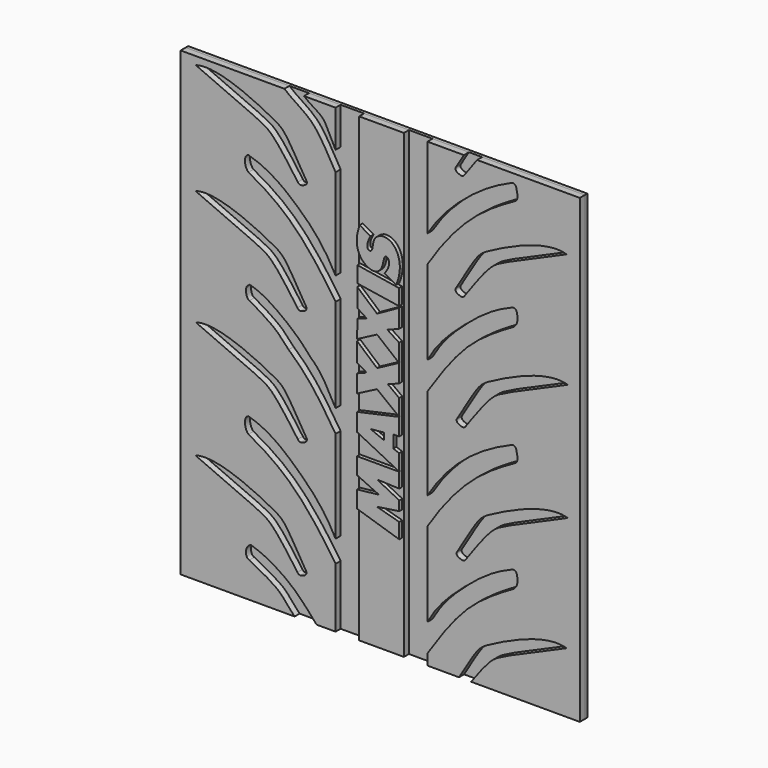
from build123d import *

# Parameters (mm, degrees)
F1_DEPTH = 2
F0_W     = 14.2300206423
F0_H     = 74.1296662018
F0_H_2   = 72.6094702259
F3_DEPTH = 1.2
F4_W     = 127.0025297999
F4_H     = 146.7391364276
F5_DEPTH = 1


with BuildPart() as f1:
    # F0 (on Front) → F1 (new body)
    with BuildSketch(Plane.XZ):
        with BuildLine():
            add(Edge.make_bspline(
                [(-41.8655090034, 15.2501037012), (-43.6666198075, 14.7190468054), (-42.9905094206, 11.0769281164), (-41.8655090034, 10.1964939386)],
                knots=[0, 0, 0, 0, 5.0536097627, 5.0536097627, 5.0536097627, 5.0536097627], degree=3))
            add(Edge.make_bspline(
                [(-41.8655090034, 15.2501037012), (-35.2597586246, 13.4208189809), (-25.3045467676, 4.790376324), (-17.9292845371, -2.7922394254), (-14.1559578478, -10.0558923369)],
                knots=[0, 0, 0, 0, 0.4975011066, 1, 1, 1, 1], degree=3))
            Line((-14.1559578478, -10.0558923369), (-14.1559578478, 19.3150328993))
            add(Edge.make_bspline(
                [(-14.1559578478, 19.3150328993), (-16.3072487843, 22.7551576557), (-21.2492316243, 30.304799236), (-26.1664546409, 35.4826125017), (-29.0970429778, 38.0549306571)],
                knots=[0, 0, 0, 0, 0.517561085, 1, 1, 1, 1], degree=3))
            Line((-29.0970429778, 38.0549306571), (-63.4493008256, 38.0549306571))
            Line((-63.4493008256, 38.0549306571), (-63.4493008256, -36.0747355447))
            Line((-63.4493008256, -36.0747355447), (-27.1971207112, -36.0747355447))
            add(Edge.make_bspline(
                [(-41.6124649346, -24.9782577157), (-39.390100932, -26.089439717), (-31.2262180507, -30.1538274419), (-29.6071148089, -33.6922566261), (-27.1971207112, -36.0747355447)],
                knots=[0, 0, 0, 0, 0.5368903269, 1, 1, 1, 1], degree=3))
            add(Edge.make_bspline(
                [(-41.2117466331, -20.5131042749), (-42.6106470898, -21.445705277), (-42.8188519542, -23.3918120427), (-42.3362219325, -24.6766920292), (-41.6124649346, -24.9782577157)],
                knots=[0, 0, 0, 0, 0.5719865372, 1, 1, 1, 1], degree=3))
            add(Edge.make_bspline(
                [(-41.2117466331, -20.5131042749), (-37.1007429452, -21.6093724169), (-27.706447267, -27.1157253071), (-23.0069098667, -32.886912527), (-20.2105976641, -36.0747355447)],
                knots=[0, 0, 0, 0, 0.522854603, 1, 1, 1, 1], degree=3))
            Line((-20.2105976641, -36.0747355447), (-14.1559578478, -36.0747355447))
            Line((-14.1559578478, -36.0747355447), (-14.1559578478, -17.0781233758))
            add(Edge.make_bspline(
                [(-41.8655090034, 10.1964939386), (-37.1166798797, 7.6510800825), (-27.6118819655, 1.4305031824), (-19.0872730942, -9.6273883339), (-14.1559578478, -17.0781233758)],
                knots=[0, 0, 0, 0, 0.4542915234, 1, 1, 1, 1], degree=3))
        make_face()
        with BuildLine():
            add(Edge.make_bspline(
                [(-58.7308444083, -1.202338608), (-48.4079346061, -5.755131715), (-36.154849372, -10.8249882133), (-33.7198717965, -12.9801158233), (-26.2810606509, -23.3725715661)],
                knots=[0, 0, 0, 0, 0.5300992494, 1, 1, 1, 1], degree=3))
            add(Edge.make_bspline(
                [(-58.7308444083, -1.202338608), (-52.1364584565, 0.840219087), (-29.6225099343, -10.1712930812), (-30.5971542315, -10.4619739025), (-23.4154388309, -22.3012209171)],
                knots=[0, 0, 0, 0, 0.5388303409, 1, 1, 1, 1], degree=3))
            add(Edge.make_bspline(
                [(-26.2810606509, -23.3725715661), (-25.8638598025, -24.0666639293), (-24.6736605899, -23.955709513), (-23.1492277235, -23.0795234675), (-23.4154388309, -22.3012209171)],
                knots=[0, 0, 0, 0, 0.485299786, 1, 1, 1, 1], degree=3))
        make_face(mode=Mode.SUBTRACT)
        with BuildLine():
            add(Edge.make_bspline(
                [(-58.6333796382, 36.1035572346), (-48.310469836, 31.5507641276), (-36.0573846019, 26.4809076293), (-33.6224070264, 24.3257800193), (-26.1835958809, 13.9333242764)],
                knots=[0, 0, 0, 0, 0.5300992494, 1, 1, 1, 1], degree=3))
            add(Edge.make_bspline(
                [(-58.6333796382, 36.1035572346), (-52.0389936864, 38.1461149295), (-29.5250451642, 27.1346027614), (-30.4996894614, 26.8439219401), (-23.3179740608, 15.0046749254)],
                knots=[0, 0, 0, 0, 0.5388303409, 1, 1, 1, 1], degree=3))
            add(Edge.make_bspline(
                [(-26.1835958809, 13.9333242764), (-25.7663950324, 13.2392319133), (-24.5761958198, 13.3501863296), (-23.0517629534, 14.2263723751), (-23.3179740608, 15.0046749254)],
                knots=[0, 0, 0, 0, 0.485299786, 1, 1, 1, 1], degree=3))
        make_face(mode=Mode.SUBTRACT)
        with BuildLine():
            add(Edge.make_bspline(
                [(-14.1559578478, 26.5061898678), (-17.3408713188, 32.5709627437), (-18.8523223631, 34.6572941584), (-20.6424468924, 36.8554720071), (-21.9953712076, 38.0549306571)],
                knots=[0, 0, 0, 0, 0.6155966596, 1, 1, 1, 1], degree=3))
            Line((-14.1559578478, 26.5061898678), (-14.1559578478, 38.0549306571))
            Line((-14.1559578478, 38.0549306571), (-21.9953712076, 38.0549306571))
        make_face()
        with BuildLine():
            Line((-63.4493008256, 38.0549306571), (-29.0970429778, 38.0549306571))
            add(Edge.make_bspline(
                [(-41.5852069855, 47.7003492415), (-39.2344400432, 46.5249657704), (-32.0130789649, 41.8905157378), (-31.3456095912, 40.2778251274), (-29.0970429778, 38.0549306571)],
                knots=[0, 0, 0, 0, 0.5679105811, 1, 1, 1, 1], degree=3))
            add(Edge.make_bspline(
                [(-41.4468608797, 52.2658005357), (-42.6919832826, 51.4357183129), (-42.6970700488, 50.1487237463), (-42.4152873456, 48.0462163687), (-41.5852069855, 47.7003492415)],
                knots=[0, 0, 0, 0, 0.5091093138, 1, 1, 1, 1], degree=3))
            add(Edge.make_bspline(
                [(-41.4468608797, 52.2658005357), (-37.2354883009, 51.142767344), (-28.8094860202, 45.210630296), (-24.7168721252, 41.1574680848), (-21.9953712076, 38.0549306571)],
                knots=[0, 0, 0, 0, 0.5356199374, 1, 1, 1, 1], degree=3))
            Line((-21.9953712076, 38.0549306571), (-14.1559578478, 38.0549306571))
            Line((-14.1559578478, 38.0549306571), (-14.1559578478, 56.291444838))
            add(Edge.make_bspline(
                [(-41.8665632606, 83.5660621524), (-37.1176644312, 81.0206109335), (-27.6115594102, 74.8003581649), (-19.0872128358, 63.7420888353), (-14.1559578478, 56.291444838)],
                knots=[0, 0, 0, 0, 0.4542981917, 1, 1, 1, 1], degree=3))
            add(Edge.make_bspline(
                [(-41.8665632606, 88.3973250166), (-43.6676740646, 87.8662681207), (-42.9915636778, 84.4464963302), (-41.8665632606, 83.5660621524)],
                knots=[0, 0, 0, 0, 4.8312628642, 4.8312628642, 4.8312628642, 4.8312628642], degree=3))
            add(Edge.make_bspline(
                [(-41.8665632606, 88.3973250166), (-35.2857208361, 86.5749378836), (-25.2193234614, 78.663365945), (-17.9433709123, 70.9146051237), (-14.1559578478, 63.6238359436)],
                knots=[0, 0, 0, 0, 0.4956252054, 1, 1, 1, 1], degree=3))
            Line((-14.1559578478, 63.6238359436), (-14.1559578478, 92.5821388661))
            add(Edge.make_bspline(
                [(-14.1559578478, 92.5821388661), (-16.3314961836, 96.0610375871), (-20.5330372187, 105.1737272253), (-27.5256646299, 108.1231862792), (-30.4208173401, 110.664400883)],
                knots=[0, 0, 0, 0, 0.523394564, 1, 1, 1, 1], degree=3))
            Line((-30.4208173401, 110.664400883), (-63.4493008256, 110.664400883))
            Line((-63.4493008256, 110.664400883), (-63.4493008256, 38.0549306571))
        make_face()
        with BuildLine():
            add(Edge.make_bspline(
                [(-58.7308444083, 72.8552903747), (-48.4079346061, 68.3024972677), (-36.154849372, 63.2326407694), (-33.7198717965, 61.0775131594), (-26.2810606509, 50.6850574166)],
                knots=[0, 0, 0, 0, 0.5300992494, 1, 1, 1, 1], degree=3))
            add(Edge.make_bspline(
                [(-58.7308444083, 72.8552903747), (-52.1364584565, 74.8978480697), (-29.6225099343, 63.8863359015), (-30.5971542315, 63.5956550802), (-23.4154388309, 51.7564080656)],
                knots=[0, 0, 0, 0, 0.5388303409, 1, 1, 1, 1], degree=3))
            add(Edge.make_bspline(
                [(-26.2810606509, 50.6850574166), (-25.8638598025, 49.9909650534), (-24.6736605899, 50.1019194697), (-23.1492277235, 50.9781055152), (-23.4154388309, 51.7564080656)],
                knots=[0, 0, 0, 0, 0.485299786, 1, 1, 1, 1], degree=3))
        make_face(mode=Mode.SUBTRACT)
        with BuildLine():
            add(Edge.make_bspline(
                [(-58.633379639, 108.1231862792), (-48.3104698371, 103.5703931723), (-36.0573846009, 98.5005366854), (-33.6224070266, 96.3454090725), (-26.1835958809, 85.9529533293)],
                knots=[0, 0, 0, 0, 0.5300992493, 1, 1, 1, 1], degree=3))
            add(Edge.make_bspline(
                [(-58.633379639, 108.1231862792), (-52.0389936873, 110.1657439741), (-29.5250451635, 99.1542318176), (-30.4996894615, 98.8635509932), (-23.3179740608, 87.0243039783)],
                knots=[0, 0, 0, 0, 0.5388303409, 1, 1, 1, 1], degree=3))
            add(Edge.make_bspline(
                [(-26.1835958809, 85.9529533293), (-25.7663950324, 85.2588609662), (-24.5761958198, 85.3698153825), (-23.0517629534, 86.246001428), (-23.3179740608, 87.0243039783)],
                knots=[0, 0, 0, 0, 0.485299786, 1, 1, 1, 1], degree=3))
        make_face(mode=Mode.SUBTRACT)
    extrude(amount=F1_DEPTH)


with BuildPart() as f1b:
    # F0 (on Front) → F1, piece 2 (new body)
    with BuildSketch(Plane.XZ):
        with Locations((0.4590524733, 0.9900975562)):
            Rectangle(F0_W, F0_H)
        with Locations((0.4590524733, 74.35966577)):
            Rectangle(F0_W, F0_H_2)
    extrude(amount=F1_DEPTH)

    # F2 (on face) → F3 (join)
    with BuildSketch(Plane.XZ.offset(2)):
        with BuildLine():
            add(Edge.make_bspline(
                [(-1.593664523, 69.6557025601), (2.4227695082, 69.4677736769), (1.0510222379, 77.9947397843), (5.1662875339, 73.5185071826), (2.3532597056, 70.17293749)],
                knots=[0, 0, 0, 0, 0.543159963, 1, 1, 1, 1], degree=3))
            Line((2.3532597056, 70.17293749), (6.0832840391, 68.1069865823))
            add(Edge.make_bspline(
                [(1.5388152096, 80.317735672), (4.364233464, 80.5911645293), (8.0780139508, 76.1376196924), (7.1714227088, 70.7295462489), (6.0832840391, 68.1069865823)],
                knots=[0, 0, 0, 0, 0.4788686478, 1, 1, 1, 1], degree=3))
            add(Edge.make_bspline(
                [(-2.0673000254, 79.0989398956), (-4.2831547234, 75.2378835789), (-0.072352471, 73.5045210834), (-2.0430385271, 79.4450014997), (1.5388152096, 80.317735672)],
                knots=[0, 0, 0, 0, 0.4446872538, 1, 1, 1, 1], degree=3))
            Line((-2.0673000254, 79.0989398956), (-5.51886263, 81.0726742436))
            add(Edge.make_bspline(
                [(-5.51886263, 81.0726742436), (-6.636819527, 78.0052232802), (-6.758014968, 73.2975326458), (-3.8440336236, 70.2832777914), (-1.593664523, 69.6557025601)],
                knots=[0, 0, 0, 0, 0.5357194558, 1, 1, 1, 1], degree=3))
        make_face()
        Polygon((-6.2724218463, 64.5119398832), (7.0095583797, 62.4566491045), (7.0095583797, 67.5095946126), (-6.2724218463, 69.6419626474), align=None)
        Polygon((-6.2724218463, 54.6392649412), (-6.3170460053, 48.9155128598), (0, 52.2330999374), (6.9726742804, 46.562731266), (7.0095583797, 52.2330999374), (3.2986551523, 54.6392649412), (6.9726264777, 56.083031539), (6.9726264777, 61.9576265996), (0, 58.0662228167), (-6.2724218463, 63.5132412486), (-6.2724218463, 57.5922802091), (-3.2824883531, 55.6535949634), align=None)
        Polygon((-6.3406578265, 22.8337492478), (7.0549640805, 16.1261726171), (7.0549640805, 21.2882533669), (5.1841945387, 21.9842866063), (5.1841945387, 25.9542521089), (7.0549640805, 25.9542521089), (7.0549640805, 31.4541353042), (-6.3406578265, 28.5082418156), align=None)
        Polygon((2.2399148438, 23.3197491616), (-2.0557362586, 25.1067411155), (2.2399148438, 25.5019403994), align=None, mode=Mode.SUBTRACT)
        Polygon((-6.3406578265, 1.3783933279), (7.0549640805, -2.8452902067), (7.0549640805, 2.0387167617), (0, 3.9841391186), (7.0549640805, 5.0430428398), (7.0549640805, 8.0855398498), (0, 11.638600197), (7.0549640805, 11.3677175644), (7.0549640805, 16.0873714519), (-6.3406578265, 16.0873714519), (-6.3406578265, 10.7783717719), (0.5800173967, 7.5654453282), (-6.3406578265, 6.7851674427), align=None)
        Polygon((0, 36.937713623), (7.0549640805, 31.4594767988), (7.0549640805, 36.7354634017), (3.4362971059, 39.4332168259), (6.9726264777, 40.7821258165), (6.9726264777, 46.5528550485), (0, 42.8201146424), (-6.3531193882, 48.3372114283), (-6.3531193882, 42.2684117836), (-3.3383076079, 40.4804363531), (-6.3406578265, 39.2909735125), (-6.3406578265, 33.6437612456), align=None)
    extrude(amount=F3_DEPTH)


with BuildPart() as f1c:
    # F0 (on Front) → F1, piece 3 (new body)
    with BuildSketch(Plane.XZ):
        with BuildLine():
            Line((63.5532289743, -36.0747355447), (63.5532289743, 38.0549306571))
            Line((63.5532289743, 38.0549306571), (29.5210032237, 38.0549306571))
            add(Edge.make_bspline(
                [(29.5210032237, 38.0549306571), (28.837112906, 37.1165058232), (28.0868631075, 36.0756258983), (27.2585712373, 34.9184535444)],
                knots=[0.9476777991, 0.9476777991, 0.9476777991, 0.9476777991, 1, 1, 1, 1], degree=3))
            add(Edge.make_bspline(
                [(27.2585712373, 34.9184535444), (26.8413703889, 34.2243611813), (25.6511711762, 34.3353155976), (24.1267383099, 35.2115016431), (24.3929494172, 35.9898041934)],
                knots=[0, 0, 0, 0, 0.485299786, 1, 1, 1, 1], degree=3))
            add(Edge.make_bspline(
                [(25.6405517733, 38.0549306571), (25.2518683443, 37.409099866), (24.8369957671, 36.721826298), (24.3929494172, 35.9898041934)],
                knots=[0.971485823, 0.971485823, 0.971485823, 0.971485823, 1, 1, 1, 1], degree=3))
            Line((25.6405517733, 38.0549306571), (15.0740627944, 38.0549306571))
            Line((15.0740627944, 38.0549306571), (15.0740627944, 11.5862038597))
            add(Edge.make_bspline(
                [(15.0740627944, 11.5862038597), (18.4322839584, 17.1100059201), (26.2886108843, 26.2889987559), (36.0107071108, 31.9461943647), (41.9982336462, 34.5122776926)],
                knots=[0, 0, 0, 0, 0.5034913396, 1, 1, 1, 1], degree=3))
            add(Edge.make_bspline(
                [(41.9982336462, 34.5122776926), (43.1498996913, 34.7179286182), (43.6235229728, 32.4182398305), (43.8902527094, 30.5225886405), (43.1498996913, 29.8233646899)],
                knots=[0, 0, 0, 0, 0.4857469503, 1, 1, 1, 1], degree=3))
            add(Edge.make_bspline(
                [(15.0740627944, 2.948734365), (19.1939191352, 9.5911349165), (27.8705148836, 20.2604931743), (36.3444124976, 26.0106527232), (43.1498996913, 29.8233646899)],
                knots=[0, 0, 0, 0, 0.516106494, 1, 1, 1, 1], degree=3))
            Line((15.0740627944, 2.948734365), (15.0740627944, -23.8272839547))
            add(Edge.make_bspline(
                [(15.0740627944, -23.8272839547), (18.1197816883, -18.2155601926), (26.0002728194, -10.530795417), (35.7019236067, -2.8514774525), (41.9735051692, -0.4206315498)],
                knots=[0, 0, 0, 0, 0.4895722155, 1, 1, 1, 1], degree=3))
            add(Edge.make_bspline(
                [(41.9735051692, -0.4206315498), (43.4408970177, 0), (43.8212356642, -3.0219769588), (43.6854623258, -4.5293271542), (42.511548847, -5.6543271057)],
                knots=[0, 0, 0, 0, 0.4738609358, 1, 1, 1, 1], degree=3))
            add(Edge.make_bspline(
                [(15.0740627944, -32.6316331834), (19.1310901262, -26.4830325432), (27.2627156627, -14.6416511622), (37.606048154, -8.5310191303), (42.511548847, -5.6543271057)],
                knots=[0, 0, 0, 0, 0.5275746556, 1, 1, 1, 1], degree=3))
            Line((15.0740627944, -32.6316331834), (15.0740627944, -36.0747355447))
            Line((15.0740627944, -36.0747355447), (25.1192508963, -36.0747355447))
            add(Edge.make_bspline(
                [(59.3331420184, -16.7983412975), (52.7387560667, -14.7557836026), (30.7870166612, -25.4923207914), (31.1654220291, -26.0367737669), (25.1192508963, -36.0747355447)],
                knots=[0, 0, 0, 0, 0.5388303409, 0.9750284089, 0.9750284089, 0.9750284089, 0.9750284089], degree=3))
            add(Edge.make_bspline(
                [(59.3331420184, -16.7983412975), (49.0102322162, -21.3511344045), (37.3435128331, -26.1783752136), (34.5777029407, -28.3631783017), (28.9691447784, -36.0747355447)],
                knots=[0, 0, 0, 0, 0.5300992494, 0.9521454524, 0.9521454524, 0.9521454524, 0.9521454524], degree=3))
            Line((28.9691447784, -36.0747355447), (63.5532289743, -36.0747355447))
        make_face()
        with BuildLine():
            add(Edge.make_bspline(
                [(59.7083549947, 19.784169388), (53.1139690429, 21.826727083), (30.6000205207, 10.8152149148), (31.5746648178, 10.5245340935), (24.3929494172, -1.3147129212)],
                knots=[0, 0, 0, 0, 0.5388303409, 1, 1, 1, 1], degree=3))
            add(Edge.make_bspline(
                [(59.7083549947, 19.784169388), (49.3854451925, 15.231376281), (37.1323599584, 10.1615197827), (34.6973823829, 8.0063921727), (27.2585712373, -2.3860635702)],
                knots=[0, 0, 0, 0, 0.5300992494, 1, 1, 1, 1], degree=3))
            add(Edge.make_bspline(
                [(27.2585712373, -2.3860635702), (26.8413703889, -3.0801559333), (25.6511711762, -2.969201517), (24.1267383099, -2.0930154715), (24.3929494172, -1.3147129212)],
                knots=[0, 0, 0, 0, 0.485299786, 1, 1, 1, 1], degree=3))
        make_face(mode=Mode.SUBTRACT)
        with BuildLine():
            Line((29.5210032237, 38.0549306571), (63.5532289743, 38.0549306571))
            Line((63.5532289743, 38.0549306571), (63.5532289743, 110.664400883))
            Line((63.5532289743, 110.664400883), (30.8587199087, 110.664400883))
            add(Edge.make_bspline(
                [(30.8587199087, 110.664400883), (29.7642792613, 109.2057980611), (28.4663416394, 107.41903115), (26.8833581358, 105.2075102925)],
                knots=[0.9000048365, 0.9000048365, 0.9000048365, 0.9000048365, 1, 1, 1, 1], degree=3))
            add(Edge.make_bspline(
                [(26.8833581358, 105.2075102925), (26.4661572874, 104.5134179294), (25.2759580747, 104.6243723457), (23.7515252084, 105.5005583912), (24.0177363157, 106.2788609415)],
                knots=[0, 0, 0, 0, 0.485299786, 1, 1, 1, 1], degree=3))
            add(Edge.make_bspline(
                [(26.6576928976, 110.664400883), (25.90811226, 109.4129342993), (25.0402752452, 107.9645433019), (24.0177363157, 106.2788609415)],
                knots=[0.93433826, 0.93433826, 0.93433826, 0.93433826, 1, 1, 1, 1], degree=3))
            Line((26.6576928976, 110.664400883), (15.0740627944, 110.664400883))
            Line((15.0740627944, 110.664400883), (15.0740627944, 84.9557720646))
            add(Edge.make_bspline(
                [(15.0740627944, 84.9557720646), (18.4136675453, 90.4489527407), (26.5042401528, 99.029839064), (35.9770482556, 105.3013373519), (41.9982336462, 107.8818459064)],
                knots=[0, 0, 0, 0, 0.5007002183, 1, 1, 1, 1], degree=3))
            add(Edge.make_bspline(
                [(41.9982336462, 107.8818459064), (43.1498996913, 108.087496832), (43.6235229728, 105.7878080443), (43.8902527094, 103.8921568543), (43.1498996913, 103.1929329038)],
                knots=[0, 0, 0, 0, 0.4857469503, 1, 1, 1, 1], degree=3))
            add(Edge.make_bspline(
                [(15.0740627944, 76.3183025698), (19.1939191356, 82.9607031219), (27.8705148817, 93.6300613906), (36.3444124982, 99.3802209373), (43.1498996913, 103.1929329038)],
                knots=[0, 0, 0, 0, 0.516106494, 1, 1, 1, 1], degree=3))
            Line((15.0740627944, 76.3183025698), (15.0740627944, 49.5422842502))
            add(Edge.make_bspline(
                [(15.0740627944, 49.5422842502), (18.1197816886, 55.1540080128), (26.0002728172, 62.8387727996), (35.7019236073, 70.5180907615), (41.9735051692, 72.948936664)],
                knots=[0, 0, 0, 0, 0.4895722156, 1, 1, 1, 1], degree=3))
            add(Edge.make_bspline(
                [(41.9735051692, 72.948936664), (43.4408970177, 73.3695682138), (43.8212356642, 70.3475912551), (43.6854623258, 68.8402410597), (42.511548847, 67.7152411081)],
                knots=[0, 0, 0, 0, 0.4738609358, 1, 1, 1, 1], degree=3))
            add(Edge.make_bspline(
                [(15.0740627944, 40.7379350215), (19.1310901265, 46.8865356621), (27.2627156608, 58.7279170538), (37.6060481545, 64.8385490838), (42.511548847, 67.7152411081)],
                knots=[0, 0, 0, 0, 0.5275746556, 1, 1, 1, 1], degree=3))
            Line((15.0740627944, 40.7379350215), (15.0740627944, 38.0549306571))
            Line((15.0740627944, 38.0549306571), (25.6405517733, 38.0549306571))
            add(Edge.make_bspline(
                [(59.7083549947, 57.0886865025), (53.1139690429, 59.1312441975), (31.2419872329, 48.4337162359), (31.538180053, 47.8543449176), (25.6405517733, 38.0549306571)],
                knots=[0, 0, 0, 0, 0.5388303409, 0.971485823, 0.971485823, 0.971485823, 0.971485823], degree=3))
            add(Edge.make_bspline(
                [(59.7083549947, 57.0886865025), (49.3854451925, 52.5358933955), (37.7734683462, 47.7313029477), (34.9790673312, 45.5444107259), (29.5210032237, 38.0549306571)],
                knots=[0, 0, 0, 0, 0.5300992494, 0.9476777991, 0.9476777991, 0.9476777991, 0.9476777991], degree=3))
        make_face()
        with BuildLine():
            add(Edge.make_bspline(
                [(59.3331418931, 93.491013942), (52.7387559414, 95.5335716369), (30.2248074192, 84.5220594688), (31.1994517163, 84.2313786475), (24.0177363157, 72.3921316328)],
                knots=[0, 0, 0, 0, 0.5388303409, 1, 1, 1, 1], degree=3))
            add(Edge.make_bspline(
                [(59.3331418931, 93.491013942), (49.010232091, 88.938220835), (36.7571468569, 83.8683643367), (34.3221692813, 81.7132367267), (26.8833581358, 71.3207809838)],
                knots=[0, 0, 0, 0, 0.5300992494, 1, 1, 1, 1], degree=3))
            add(Edge.make_bspline(
                [(26.8833581358, 71.3207809838), (26.4661572876, 70.626688621), (25.2759580727, 70.7376430208), (23.7515252082, 71.6138290822), (24.0177363157, 72.3921316328)],
                knots=[0, 0, 0, 0, 0.4852997858, 1, 1, 1, 1], degree=3))
        make_face(mode=Mode.SUBTRACT)
    extrude(amount=F1_DEPTH)


with BuildPart() as f1d:
    # F0 (on Front) → F1, piece 4 (new body)
    with BuildSketch(Plane.XZ):
        with BuildLine():
            Line((-14.1559578478, 110.664400883), (-24.1985524989, 110.664400883))
            add(Edge.make_bspline(
                [(-14.1559578478, 98.8424668609), (-16.9766628953, 104.2137071219), (-17.3851287756, 106.7027443848), (-22.5978660389, 109.2452843818), (-24.1985524989, 110.664400883)],
                knots=[0, 0, 0, 0, 0.5452005591, 1, 1, 1, 1], degree=3))
            Line((-14.1559578478, 98.8424668609), (-14.1559578478, 110.664400883))
        make_face()
    extrude(amount=F1_DEPTH)


with BuildPart() as f5:
    # F4 (on Front) → F5 (new body)
    with BuildSketch(Plane.XZ):
        with Locations((0.0519640744, 37.2948326691)):
            Rectangle(F4_W, F4_H)
    extrude(amount=-F5_DEPTH)


solid = Compound([f1.part, f1b.part, f1c.part, f1d.part, f5.part])
